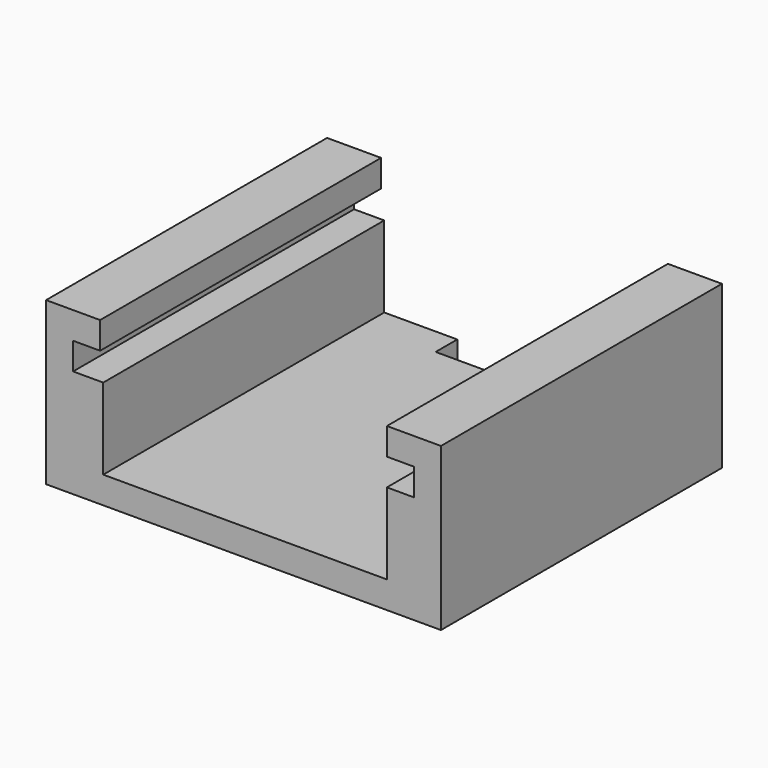
from build123d import *

# Parameters (mm, degrees)
PAD_DEPTH    = 26
SKETCH001_W  = 8
SKETCH001_H  = 2
POCKET_DEPTH = 2.001


with BuildPart() as part:
    # Sketch → Pad (new body)
    with BuildSketch(Plane.XZ):
        Polygon((-3.96322, 19.863666), (-3.96322, 21.863666), (-7.96322, 21.863666), (-7.96322, 9.863666), (21.2675, 9.863666), (21.2675, 21.863666), (17.2675, 21.863666), (17.2675, 19.863666), (19.2675, 19.863666), (19.2675, 17.863666), (17.2675, 17.863666), (17.2675, 11.863666), (-3.7325, 11.863666), (-3.7325, 17.863666), (-5.96322, 17.863666), (-5.96322, 19.863666), align=None)
    extrude(amount=PAD_DEPTH)

    # Sketch001 (on Face12 of Pad) → Pocket (cut, through all)
    with BuildSketch(Plane(origin=(0, 0, 11.863666), x_dir=(-1, 0, 0), z_dir=(0, 0, 1))):
        with Locations((-5.674862, 1)):
            Rectangle(SKETCH001_W, SKETCH001_H)
    extrude(amount=-POCKET_DEPTH, mode=Mode.SUBTRACT)


solid = part.part
